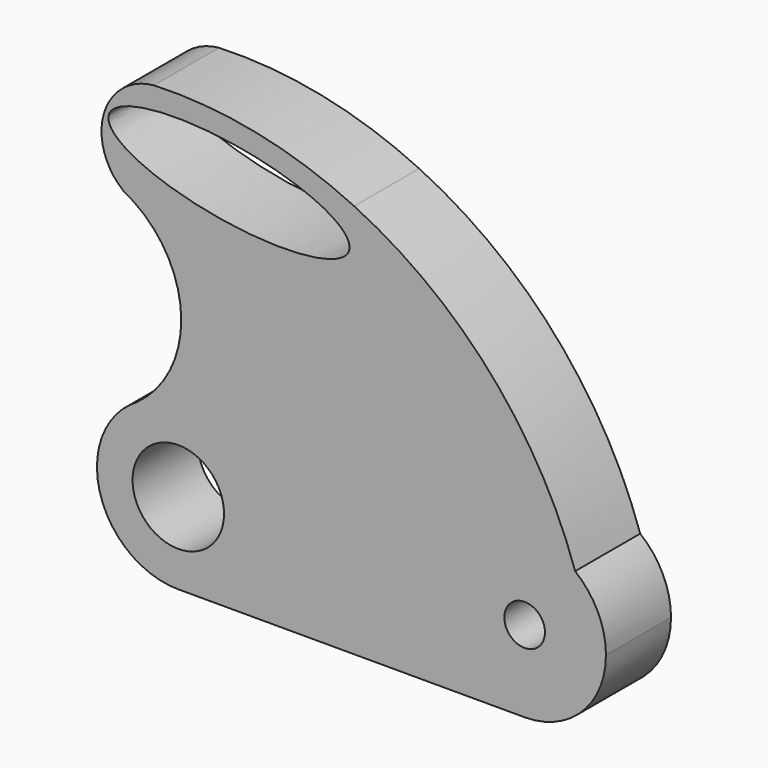
from build123d import *

# Parameters (mm, degrees)
F0_R     = 14.2875
F0_R_2   = 6.35
F1_DEPTH = 25.4


with BuildPart() as f1:
    # F0 (on Front) → F1 (new body)
    with BuildSketch(Plane.XZ):
        with BuildLine():
            ThreePointArc((-61.691961, 60.835692), (-77.350545, 47.949147), (-71.162157, 28.637022))
            ThreePointArc((-71.162157, 28.637022), (-42.423401, 27.949077), (-15.744486, 17.242779))
            ThreePointArc((-15.744486, 17.242779), (1.707415, 27.648546), (0.850393, 47.949147))
            ThreePointArc((0.850393, 47.949147), (-29.638042, 58.191307), (-61.691961, 60.835692))
        make_face()
        with BuildLine():
            add(Edge.make_bspline(
                [(-36.485725, 52.66885), (-101.638302, 63.155588), (-71.710867, 41.455281), (-41.783431, 19.754974), (-6.55829, 30.968543), (28.666852, 42.182112), (-36.485725, 52.66885)],
                knots=[4.712389, 4.712389, 4.712389, 6.806784, 6.806784, 8.901179, 8.901179, 10.995574, 10.995574, 10.995574], degree=2, weights=[1, 0.5, 1, 0.5, 1, 0.5, 1]))
        make_face(mode=Mode.SUBTRACT)
        with BuildLine():
            ThreePointArc((-28.689433, -49.883855), (-36.048271, -67.763354), (-53.860809, -75.282826))
            Line((-53.860809, -75.282826), (54.089191, -75.283855))
            ThreePointArc((54.089191, -75.283855), (30.102829, -41.529045), (69.869048, -29.979993))
            ThreePointArc((69.869048, -29.979993), (43.278115, 15.997576), (0.850393, 47.949147))
            ThreePointArc((0.850393, 47.949147), (1.707415, 27.648546), (-15.744486, 17.242779))
            ThreePointArc((-15.744486, 17.242779), (-42.423401, 27.949077), (-71.162157, 28.637022))
            ThreePointArc((-71.162157, 28.637022), (-53.255114, 1.384315), (-67.166468, -28.108843))
            ThreePointArc((-67.166468, -28.108843), (-41.579371, -27.778237), (-28.689433, -49.883855))
        make_face()
        with BuildLine():
            ThreePointArc((-67.166468, -28.108843), (-68.095439, -28.74728), (-69.045462, -29.353946))
            ThreePointArc((-69.045462, -29.353946), (-78.205602, -57.856958), (-53.860809, -75.282826))
            ThreePointArc((-53.860809, -75.282826), (-36.048271, -67.763354), (-28.689433, -49.883855))
            ThreePointArc((-28.689433, -49.883855), (-41.579371, -27.778237), (-67.166468, -28.108843))
        make_face()
        with Locations((-54.089433, -49.883855)):
            Circle(F0_R, mode=Mode.SUBTRACT)
        with BuildLine():
            ThreePointArc((69.869048, -29.979993), (30.102829, -41.529045), (54.089191, -75.283855))
            ThreePointArc((54.089191, -75.283855), (72.049859, -67.844453), (79.489433, -49.883855))
            ThreePointArc((79.489433, -49.883855), (76.958213, -38.830399), (69.869048, -29.979993))
        make_face()
        with Locations((54.089433, -49.883855)):
            Circle(F0_R_2, mode=Mode.SUBTRACT)
    extrude(amount=F1_DEPTH)


solid = f1.part
